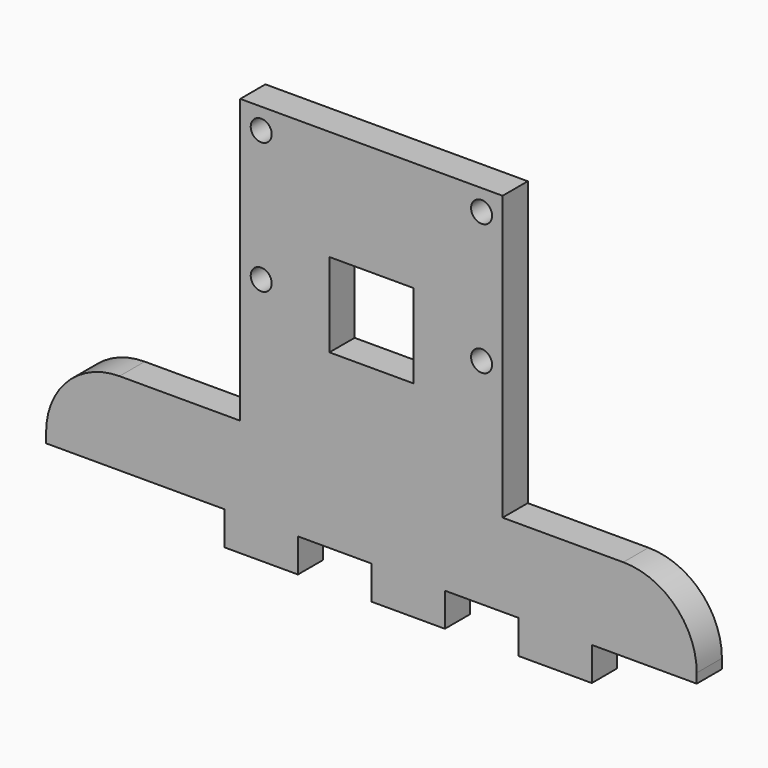
from build123d import *

# Parameters (mm, degrees)
F0_R     = 1
F0_W     = 8
F0_H     = 8
F1_DEPTH = 1.5


with BuildPart() as f1:
    # F0 (on Front) → F1 (new body, symmetric)
    with BuildSketch(Plane.XZ):
        with BuildLine():
            Line((12.5, -13.5), (12.5, 13.5))
            Line((12.5, 13.5), (-12.5, 13.5))
            Line((-12.5, 13.5), (-12.5, -13.5))
            Line((-12.5, -13.5), (-24, -13.5))
            ThreePointArc((-24, -13.5), (-28.949747, -15.550253), (-31, -20.5))
            Line((-31, -20.5), (-31, -21.411933))
            Line((-31, -21.411933), (-14, -21.411933))
            Line((-14, -21.411933), (-14, -24.611933))
            Line((-14, -24.611933), (-7, -24.611933))
            Line((-7, -24.611933), (-7, -21.411933))
            Line((-7, -21.411933), (0, -21.411933))
            Line((0, -21.411933), (0, -24.611933))
            Line((0, -24.611933), (7, -24.611933))
            Line((7, -24.611933), (7, -21.411933))
            Line((7, -21.411933), (14, -21.411933))
            Line((14, -21.411933), (14, -24.611933))
            Line((14, -24.611933), (21, -24.611933))
            Line((21, -24.611933), (21, -21.411113))
            Line((21, -21.411113), (31, -21.411378))
            Line((31, -21.411378), (31, -20.5))
            ThreePointArc((31, -20.5), (28.949747, -15.550253), (24, -13.5))
            Line((24, -13.5), (12.5, -13.5))
        make_face()
        with Locations((-10.5, -1)):
            Circle(F0_R, mode=Mode.SUBTRACT)
        with Locations((-10.5, 11.5)):
            Circle(F0_R, mode=Mode.SUBTRACT)
        with Locations((0, -1)):
            Rectangle(F0_W, F0_H, mode=Mode.SUBTRACT)
        with Locations((10.5, -1)):
            Circle(F0_R, mode=Mode.SUBTRACT)
        with Locations((10.5, 11.5)):
            Circle(F0_R, mode=Mode.SUBTRACT)
    extrude(amount=F1_DEPTH, both=True)


solid = f1.part
